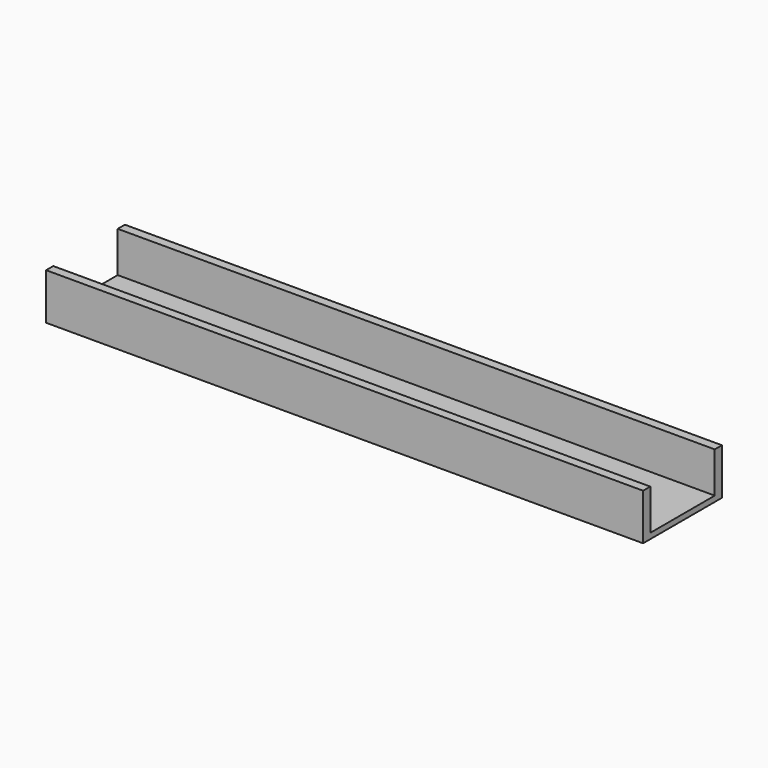
from build123d import *

# Parameters (mm, degrees)
F0_W     = 461.772
F0_H     = 76.2
F1_DEPTH = 35.814
F2_W     = 62.3316
F2_H     = 31.496
F3_DEPTH = 461.773


with BuildPart() as f1:
    # F0 (on Top) → F1 (new body)
    with BuildSketch(Plane.XY):
        with Locations((-38.690397, 9.206371)):
            Rectangle(F0_W, F0_H)
    extrude(amount=F1_DEPTH)

    # F2 (on face) → F3 (cut, through all)
    with BuildSketch(Plane(origin=(-269.576397, 0, 0), x_dir=(0, -1, 0), z_dir=(-1, 0, 0))):
        with Locations((-9.206371, 20.066)):
            Rectangle(F2_W, F2_H)
    extrude(amount=-F3_DEPTH, mode=Mode.SUBTRACT)


solid = f1.part
